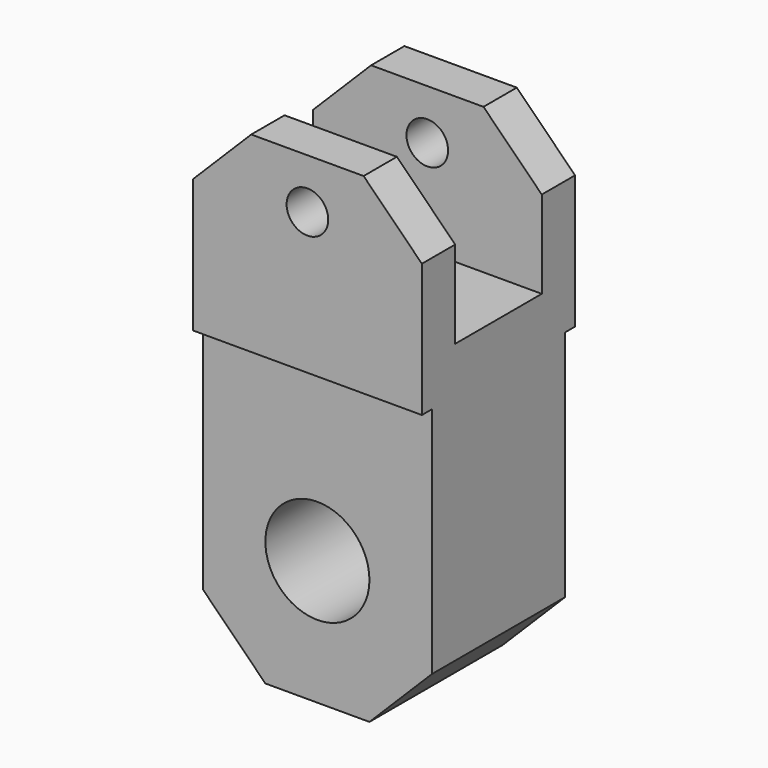
from build123d import *

# Parameters (mm, degrees)
F0_R     = 125
F0_R_2   = 50
F1_DEPTH = 460
F2_W     = 260
F2_H     = 420
F3_DEPTH = 550.001
F4_W     = 550
F4_H     = 710
F5_DEPTH = 30
F6_W     = 550
F6_H     = 710
F7_DEPTH = 30


with BuildPart() as f1:
    # F0 (on Front) → F1 (new body)
    with BuildSketch(Plane.XZ):
        Polygon((135, 120), (-135, 120), (-275, -20), (-275, -120), (-275, -900), (-125, -1050), (125, -1050), (275, -900), (275, -120), (275, -20), align=None)
        with Locations((0, -750)):
            Circle(F0_R, mode=Mode.SUBTRACT)
        Circle(F0_R_2, mode=Mode.SUBTRACT)
    extrude(amount=F1_DEPTH)

    # F2 (on face) → F3 (cut, through all)
    with BuildSketch(Plane.YZ.offset(275)):
        with Locations((-230, -20)):
            Rectangle(F2_W, F2_H)
    extrude(amount=-F3_DEPTH, mode=Mode.SUBTRACT)

    # F4 (on face) → F5 (cut)
    with BuildSketch(Plane(origin=(0, 0, 0), x_dir=(-1, 0, 0), z_dir=(0, 1, 0))):
        with Locations((0, -695)):
            Rectangle(F4_W, F4_H)
    extrude(amount=-F5_DEPTH, mode=Mode.SUBTRACT)

    # F6 (on face) → F7 (cut)
    with BuildSketch(Plane.XZ.offset(460)):
        with Locations((0, -695)):
            Rectangle(F6_W, F6_H)
    extrude(amount=-F7_DEPTH, mode=Mode.SUBTRACT)


solid = f1.part
